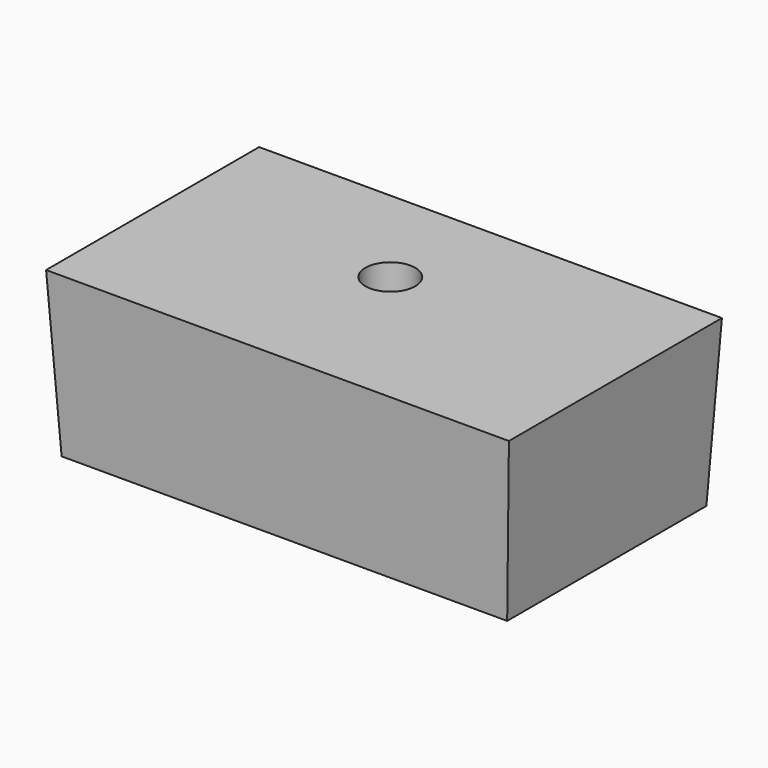
from build123d import *

# Parameters (mm, degrees)
F0_W     = 89.2423950136
F0_H     = 49.8712025583
F1_DEPTH = 33
F1_TAPER = -3
F5_D     = 10


with BuildPart() as f1:
    # F0 (on Top) → F1 (new body)
    with BuildSketch(Plane.XY):
        with Locations((2.8285663575, 24.9356012791)):
            Rectangle(F0_W, F0_H)
    extrude(amount=F1_DEPTH, taper=F1_TAPER)

    # F5 (through all)
    with Locations(Plane.XY.offset(33)):
        with Locations((0, 30.0528593361)):
            Hole(F5_D / 2)


solid = f1.part
